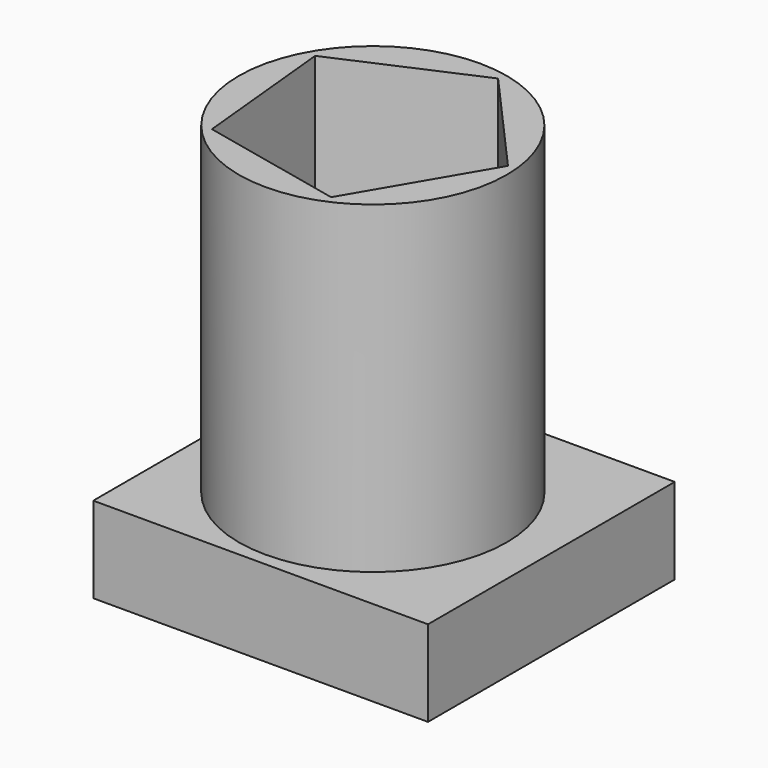
from build123d import *

# Parameters (mm, degrees)
F0_W      = 56.1024434865
F0_H      = 50.5313724279
F1_DEPTH  = 75.692
F2_DEPTH  = 140.716
F3_DEPTH  = 105.664
F4_R      = 78.7850873133
F5_DEPTH  = 190.246
F6_R      = 25.2857639188
F7_DEPTH  = 125.476
F8_R      = 34.6183044946
F9_DEPTH  = 83.566
F11_DEPTH = 167.386


with BuildPart() as f1:
    # F0 (on Front) → F1 (new body)
    with BuildSketch(Plane.XZ):
        with Locations((28.0512217432, 25.265686214)):
            Rectangle(F0_W, F0_H)
    extrude(amount=F1_DEPTH)

    # F2 (add): a face of the model
    f2_faces = [f1.faces().sort_by_distance(p)[0] for p in [
        (56.1024434865, -37.846, 25.265686214),
    ]]
    extrude(f2_faces, amount=F2_DEPTH)

    # F3 (add): a face of the model
    f3_faces = [f1.faces().sort_by_distance(p)[0] for p in [
        (98.4092217432, -75.692, 25.265686214),
    ]]
    extrude(f3_faces, amount=F3_DEPTH)

    # F4 (on face) → F5 (join)
    with BuildSketch(Plane.XY.offset(50.5313724279)):
        with Locations((95.3895151615, -95.1104015112)):
            Circle(F4_R)
    extrude(amount=F5_DEPTH)

    # F6 (on face) → F7 (cut)
    with BuildSketch(Plane.XY.offset(240.7773724279)):
        with Locations((95.3895151615, -95.1104015112)):
            Circle(F6_R)
    extrude(amount=F7_DEPTH, mode=Mode.SUBTRACT)

    # F8 (on face) → F9 (cut)
    with BuildSketch(Plane.XY.offset(240.7773724279)):
        with Locations((95.3895151615, -95.1104015112)):
            Circle(F8_R)
    extrude(amount=-F9_DEPTH, mode=Mode.SUBTRACT)

    # F10 (on face) → F11 (cut)
    with BuildSketch(Plane.XY.offset(240.7773724279)):
        Polygon((40.0986362787, -144.27217879), (125.0593225865, -162.8869768172), (169.0173434726, -87.8368514126), (111.2242081507, -22.8385250253), (31.5480653191, -57.7174755108), align=None)
    extrude(amount=-F11_DEPTH, mode=Mode.SUBTRACT)


solid = f1.part
